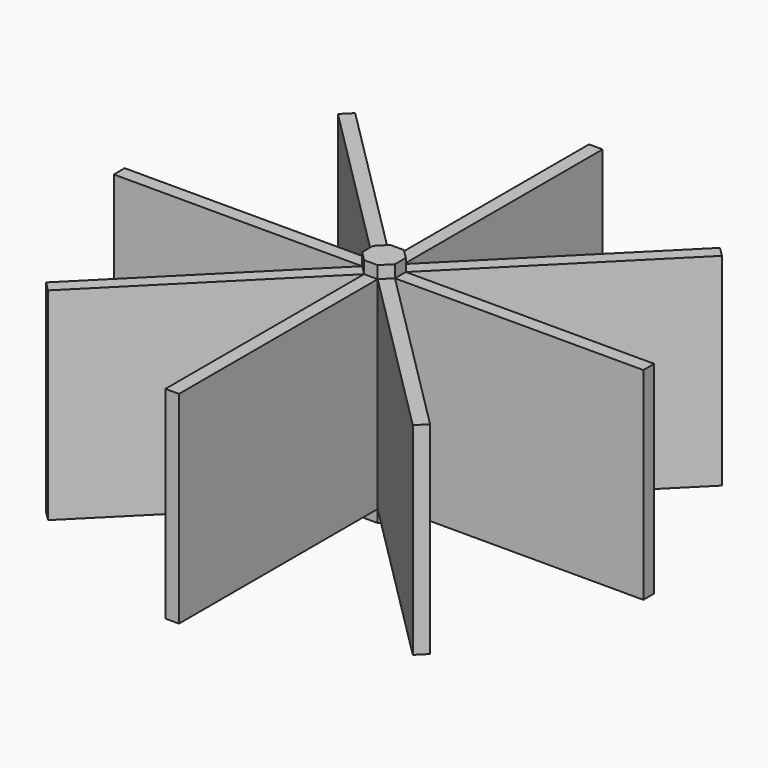
from build123d import *

# Parameters (mm, degrees)
F1_DEPTH      = 20.32
F1_DEPTH_BACK = 20.32
F2_W          = 2.4300397955
F2_H          = 36.2040139735
F10_DEPTH     = 44.45
F3_W          = 2.4300397955
F3_H          = 36.2040139735
F11_DEPTH     = 44.45
F4_W          = 2.4300397955
F4_H          = 36.2040139735
F12_DEPTH     = 44.45
F5_W          = 2.4300397955
F5_H          = 36.2040139735
F13_DEPTH     = 44.45
F6_W          = 2.4300397955
F6_H          = 36.2040139735
F14_DEPTH     = 44.45
F9_W          = 2.4300397955
F9_H          = 36.2040139735
F15_DEPTH     = 44.45
F8_W          = 2.4300397955
F8_H          = 36.2040139735
F16_DEPTH     = 44.45
F7_W          = 2.4300397955
F7_H          = 36.2040139735
F17_DEPTH     = 44.45


with BuildPart() as f1:
    # F0 (on Top) → F1 (new body, two sides)
    with BuildSketch(Plane.XY) as f1_sk:
        Polygon((1.2150198978, 2.9333175157), (-1.2150198978, 2.9333175157), (-2.9333175157, 1.2150198978), (-2.9333175157, -1.2150198978), (-1.2150198978, -2.9333175157), (1.2150198978, -2.9333175157), (2.9333175157, -1.2150198978), (2.9333175157, 1.2150198978), align=None)
    extrude(amount=F1_DEPTH)
    extrude(f1_sk.sketch, amount=-F1_DEPTH_BACK)

    # F2 (on face) → F10 (join)
    with BuildSketch(Plane(origin=(0, 2.9333175157, 0), x_dir=(-1, 0, 0), z_dir=(0, 1, 0))):
        Rectangle(F2_W, F2_H)
    extrude(amount=F10_DEPTH)

    # F3 (on face) → F11 (join)
    with BuildSketch(Plane(origin=(2.0741687067, 2.0741687067, 0), x_dir=(-0.7071067812, 0.7071067812, 0), z_dir=(0.7071067812, 0.7071067812, 0))):
        Rectangle(F3_W, F3_H)
    extrude(amount=F11_DEPTH)

    # F4 (on face) → F12 (join)
    with BuildSketch(Plane.YZ.offset(2.9333175157)):
        Rectangle(F4_W, F4_H)
    extrude(amount=F12_DEPTH)

    # F5 (on face) → F13 (join)
    with BuildSketch(Plane(origin=(2.0741687067, -2.0741687067, 0), x_dir=(0.7071067812, 0.7071067812, 0), z_dir=(0.7071067812, -0.7071067812, 0))):
        Rectangle(F5_W, F5_H)
    extrude(amount=F13_DEPTH)

    # F6 (on face) → F14 (join)
    with BuildSketch(Plane.XZ.offset(2.9333175157)):
        Rectangle(F6_W, F6_H)
    extrude(amount=F14_DEPTH)

    # F9 (on face) → F15 (join)
    with BuildSketch(Plane(origin=(-2.0741687067, 2.0741687067, 0), x_dir=(-0.7071067812, -0.7071067812, 0), z_dir=(-0.7071067812, 0.7071067812, 0))):
        Rectangle(F9_W, F9_H)
    extrude(amount=F15_DEPTH)

    # F8 (on face) → F16 (join)
    with BuildSketch(Plane(origin=(-2.9333175157, 0, 0), x_dir=(0, -1, 0), z_dir=(-1, 0, 0))):
        Rectangle(F8_W, F8_H)
    extrude(amount=F16_DEPTH)

    # F7 (on face) → F17 (join)
    with BuildSketch(Plane(origin=(-2.0741687067, -2.0741687067, 0), x_dir=(0.7071067812, -0.7071067812, 0), z_dir=(-0.7071067812, -0.7071067812, 0))):
        Rectangle(F7_W, F7_H)
    extrude(amount=F17_DEPTH)


solid = f1.part
